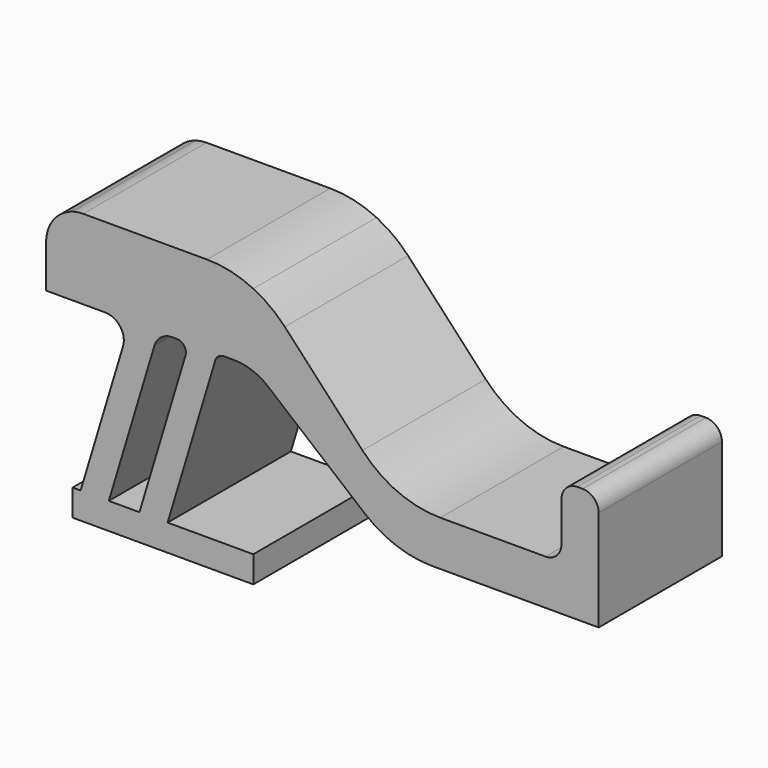
from build123d import *

# Parameters (mm, degrees)
F1_DEPTH = 7.366


with BuildPart() as f1:
    # F0 (on Front) → F1 (new body)
    with BuildSketch(Plane.XZ):
        with BuildLine():
            Line((-2.213933, 12.954), (-8.128, 12.954))
            ThreePointArc((-8.128, 12.954), (-8.384689, 12.935373), (-8.636, 12.879884))
            Line((-8.636, 12.879884), (-8.636, 9.144))
            Line((-8.636, 9.144), (-7.079154, 9.144))
            ThreePointArc((-7.079154, 9.144), (-6.365658, 8.785324), (-6.227896, 7.998719))
            Line((-6.227896, 7.998719), (-8.253652, 1.27))
            Line((-8.253652, 1.27), (-6.907021, 1.27))
            Line((-6.907021, 1.27), (-4.726952, 8.511281))
            ThreePointArc((-4.726952, 8.511281), (-4.406018, 8.968497), (-3.875693, 9.144))
            Line((-3.875693, 9.144), (-3.648131, 9.144))
            ThreePointArc((-3.648131, 9.144), (-3.304393, 8.971202), (-3.238025, 8.592243))
            Line((-3.238025, 8.592243), (-5.442468, 1.27))
            Line((-5.442468, 1.27), (-4.095837, 1.27))
            Line((-4.095837, 1.27), (-1.817051, 8.839178))
            ThreePointArc((-1.817051, 8.839178), (-1.662436, 9.059449), (-1.406944, 9.144))
            Line((-1.406944, 9.144), (-0.917281, 9.144))
            ThreePointArc((-0.917281, 9.144), (-0.054535, 8.992989), (0.705625, 8.557913))
            Line((0.705625, 8.557913), (5.316478, 4.728173))
            ThreePointArc((5.316478, 4.728173), (6.836798, 3.858021), (8.562289, 3.556))
            Line((8.562289, 3.556), (10.439335, 3.556))
            Line((10.439335, 3.556), (16.51, 3.556))
            Line((16.51, 3.556), (16.51, 8.382))
            ThreePointArc((16.51, 8.382), (16.286815, 8.920815), (15.748, 9.144))
            Line((15.748, 9.144), (15.494, 9.144))
            ThreePointArc((15.494, 9.144), (14.955185, 8.920815), (14.732, 8.382))
            Line((14.732, 8.382), (14.732, 6.477))
            ThreePointArc((14.732, 6.477), (14.508815, 5.938185), (13.97, 5.715))
            Line((13.97, 5.715), (10.439335, 5.715))
            Line((10.439335, 5.715), (8.941661, 5.715))
            ThreePointArc((8.941661, 5.715), (6.912095, 6.138042), (5.220557, 7.336708))
            Line((5.220557, 7.336708), (1.507171, 11.332292))
            ThreePointArc((1.507171, 11.332292), (0.805397, 11.959345), (0, 12.446188))
            ThreePointArc((0, 12.446188), (-1.078221, 12.82542), (-2.213933, 12.954))
        make_face()
        with BuildLine():
            Line((-8.636, 9.144), (-8.636, 12.879884))
            ThreePointArc((-8.636, 12.879884), (-9.553571, 12.238558), (-9.906, 11.176))
            Line((-9.906, 11.176), (-9.906, 9.144))
            Line((-9.906, 9.144), (-8.636, 9.144))
        make_face()
        Polygon((-6.907021, 1.27), (-8.253652, 1.27), (-8.636, 1.27), (-8.636, 0), (0, 0), (0, 1.27), (-4.095837, 1.27), (-5.442468, 1.27), align=None)
    extrude(amount=F1_DEPTH)


solid = f1.part
